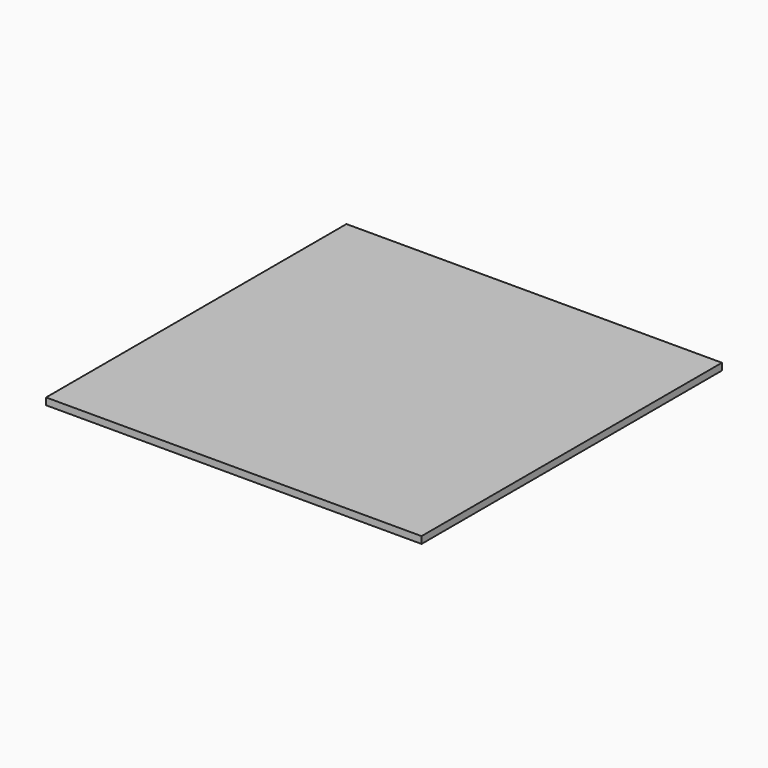
from build123d import *

# Parameters (mm, degrees)
F0_W     = 190
F0_H     = 190
F1_DEPTH = 2
F2_DEPTH = 1.5


with BuildPart() as f1:
    # F0 (on Top) → F1 (new body)
    with BuildSketch(Plane.XY):
        with Locations((95, 95)):
            Rectangle(F0_W, F0_H)
    extrude(amount=F1_DEPTH)

    # F0 (on Top) → F2 (join, symmetric)
    with BuildSketch(Plane.XY):
        with Locations((95, 95)):
            Rectangle(F0_W, F0_H)
    extrude(amount=F2_DEPTH, both=True)


solid = f1.part
